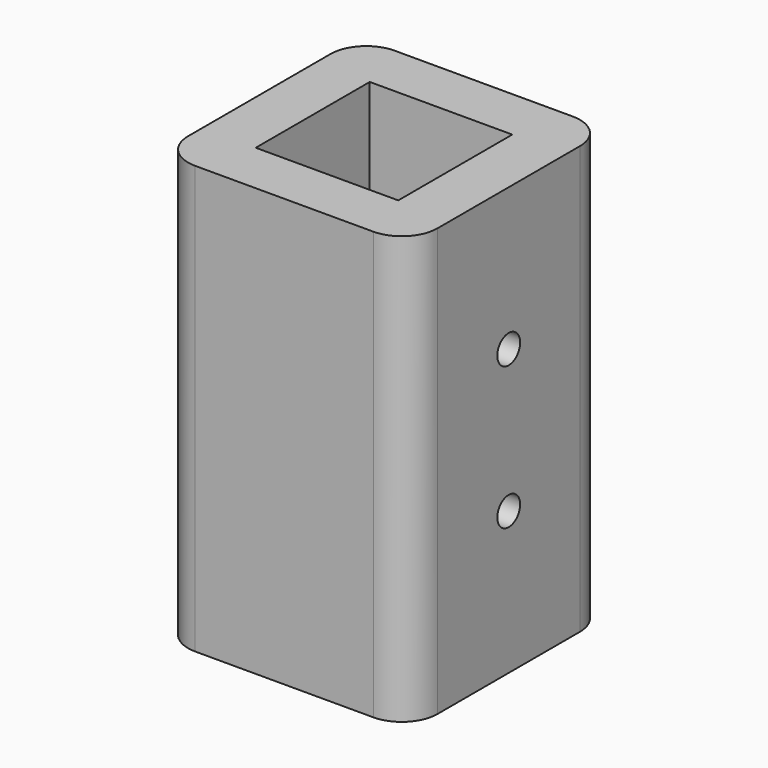
from build123d import *

# Parameters (mm, degrees)
F0_W     = 35
F0_H     = 35
F0_W_2   = 20
F0_H_2   = 20
F1_DEPTH = 60
F2_R     = 5
F3_R     = 2
F4_DEPTH = 10


with BuildPart() as f1:
    # F0 (on Top) → F1 (new body)
    with BuildSketch(Plane.XY):
        Rectangle(F0_W, F0_H)
        Rectangle(F0_W_2, F0_H_2, mode=Mode.SUBTRACT)
    extrude(amount=F1_DEPTH)

    # F2
    f2_edges = [f1.edges().sort_by_distance(p)[0] for p in [
        (17.5, 17.5, 30),
        (-17.5, 17.5, 30),
        (17.5, -17.5, 30),
        (-17.5, -17.5, 30),
    ]]
    fillet(f2_edges, radius=F2_R)

    # F3 (on face) → F4 (cut)
    with BuildSketch(Plane.YZ.offset(17.5)):
        with Locations((0, 40)):
            Circle(F3_R)
        with Locations((0, 20)):
            Circle(F3_R)
    extrude(amount=-F4_DEPTH, mode=Mode.SUBTRACT)


solid = f1.part
